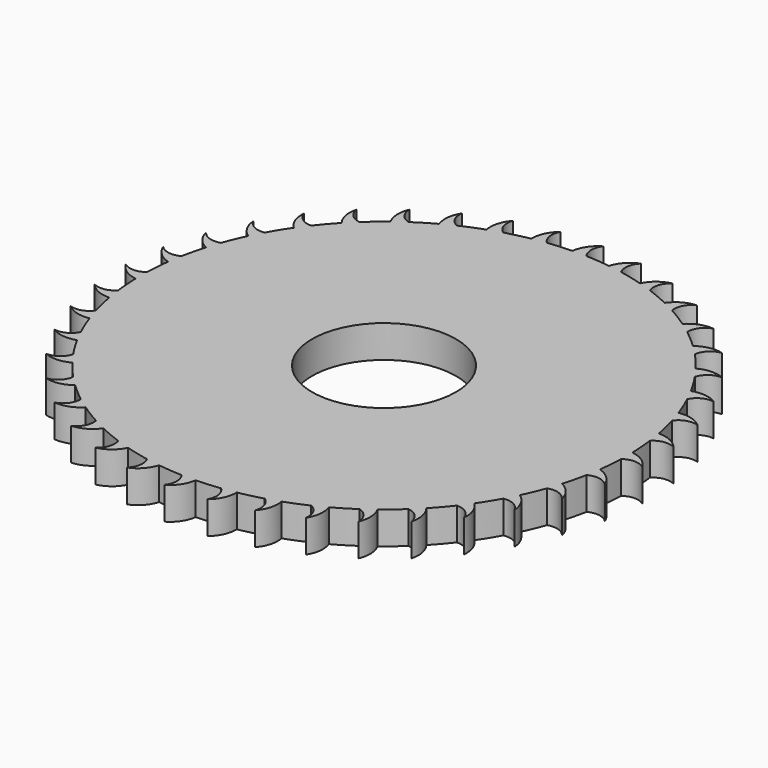
from build123d import *

# Parameters (mm, degrees)
F0_R     = 11.2522
F1_DEPTH = 5.08


with BuildPart() as f1:
    # F0 (on Top) → F1 (new body)
    with BuildSketch(Plane.XY):
        with BuildLine():
            ThreePointArc((38.080461, -1.220032), (38.095115, -0.610094), (38.1, 0))
            ThreePointArc((38.1, 0), (38.096821, 0.492135), (38.087286, 0.984188))
            ThreePointArc((38.087286, 0.984188), (37.991624, 2.871669), (37.802483, 4.752085))
            ThreePointArc((37.802483, 4.752085), (37.6492, 5.843605), (37.464408, 6.930235))
            ThreePointArc((37.464408, 6.930235), (37.074656, 8.779514), (36.593681, 10.60719))
            ThreePointArc((36.593681, 10.60719), (36.271535, 11.661293), (35.919031, 12.705637))
            ThreePointArc((35.919031, 12.705637), (35.244787, 14.471177), (34.483822, 16.201111))
            ThreePointArc((34.483822, 16.201111), (34.000744, 17.191842), (33.489209, 18.168184))
            ThreePointArc((33.489209, 18.168184), (32.547074, 19.806513), (31.524857, 21.396107))
            ThreePointArc((31.524857, 21.396107), (30.892742, 22.29907), (30.234771, 23.18337))
            ThreePointArc((30.234771, 23.18337), (29.047945, 24.654146), (27.789645, 26.064259))
            ThreePointArc((27.789645, 26.064259), (27.024058, 26.857221), (26.235852, 27.627704))
            ThreePointArc((26.235852, 27.627704), (24.833558, 28.894712), (23.37016, 30.090623))
            ThreePointArc((23.37016, 30.090623), (22.489952, 30.754058), (21.59092, 31.391753))
            ThreePointArc((21.59092, 31.391753), (20.007687, 32.423795), (18.375224, 33.376056))
            ThreePointArc((18.375224, 33.376056), (17.402069, 33.893628), (16.414348, 34.382832))
            ThreePointArc((16.414348, 34.382832), (14.68916, 35.154496), (12.927829, 35.83966))
            ThreePointArc((12.927829, 35.83966), (11.885689, 36.198624), (10.8336, 36.527293))
            ThreePointArc((10.8336, 36.527293), (9.008938, 37.019576), (7.162108, 37.420772))
            ThreePointArc((7.162108, 37.420772), (6.076644, 37.612291), (4.986093, 37.772329))
            ThreePointArc((4.986093, 37.772329), (3.106885, 37.973112), (1.220032, 38.080461))
            ThreePointArc((1.220032, 38.080461), (0.117972, 38.099817), (-0.984188, 38.087286))
            ThreePointArc((-0.984188, 38.087286), (-2.871669, 37.991624), (-4.752085, 37.802483))
            ThreePointArc((-4.752085, 37.802483), (-5.843605, 37.6492), (-6.930235, 37.464408))
            ThreePointArc((-6.930235, 37.464408), (-8.779514, 37.074656), (-10.60719, 36.593681))
            ThreePointArc((-10.60719, 36.593681), (-11.661293, 36.271535), (-12.705637, 35.919031))
            ThreePointArc((-12.705637, 35.919031), (-14.471177, 35.244787), (-16.201111, 34.483822))
            ThreePointArc((-16.201111, 34.483822), (-17.191842, 34.000744), (-18.168184, 33.489209))
            ThreePointArc((-18.168184, 33.489209), (-19.806513, 32.547074), (-21.396107, 31.524857))
            ThreePointArc((-21.396107, 31.524857), (-22.29907, 30.892742), (-23.18337, 30.234771))
            ThreePointArc((-23.18337, 30.234771), (-24.654146, 29.047945), (-26.064259, 27.789645))
            ThreePointArc((-26.064259, 27.789645), (-26.857221, 27.024058), (-27.627704, 26.235852))
            ThreePointArc((-27.627704, 26.235852), (-28.894712, 24.833558), (-30.090623, 23.37016))
            ThreePointArc((-30.090623, 23.37016), (-30.754058, 22.489952), (-31.391753, 21.59092))
            ThreePointArc((-31.391753, 21.59092), (-32.423795, 20.007687), (-33.376056, 18.375224))
            ThreePointArc((-33.376056, 18.375224), (-33.893628, 17.402069), (-34.382832, 16.414348))
            ThreePointArc((-34.382832, 16.414348), (-35.154496, 14.68916), (-35.83966, 12.927829))
            ThreePointArc((-35.83966, 12.927829), (-36.198624, 11.885689), (-36.527293, 10.8336))
            ThreePointArc((-36.527293, 10.8336), (-37.019576, 9.008938), (-37.420772, 7.162108))
            ThreePointArc((-37.420772, 7.162108), (-37.612291, 6.076644), (-37.772329, 4.986093))
            ThreePointArc((-37.772329, 4.986093), (-37.973112, 3.106885), (-38.080461, 1.220032))
            ThreePointArc((-38.080461, 1.220032), (-38.099817, 0.117972), (-38.087286, -0.984188))
            ThreePointArc((-38.087286, -0.984188), (-37.991624, -2.871669), (-37.802483, -4.752085))
            ThreePointArc((-37.802483, -4.752085), (-37.6492, -5.843605), (-37.464408, -6.930235))
            ThreePointArc((-37.464408, -6.930235), (-37.074656, -8.779514), (-36.593681, -10.60719))
            ThreePointArc((-36.593681, -10.60719), (-36.271535, -11.661293), (-35.919031, -12.705637))
            ThreePointArc((-35.919031, -12.705637), (-35.244787, -14.471177), (-34.483822, -16.201111))
            ThreePointArc((-34.483822, -16.201111), (-34.000744, -17.191842), (-33.489209, -18.168184))
            ThreePointArc((-33.489209, -18.168184), (-32.547074, -19.806513), (-31.524857, -21.396107))
            ThreePointArc((-31.524857, -21.396107), (-30.892742, -22.29907), (-30.234771, -23.18337))
            ThreePointArc((-30.234771, -23.18337), (-29.047945, -24.654146), (-27.789645, -26.064259))
            ThreePointArc((-27.789645, -26.064259), (-27.024058, -26.857221), (-26.235852, -27.627704))
            ThreePointArc((-26.235852, -27.627704), (-24.833558, -28.894712), (-23.37016, -30.090623))
            ThreePointArc((-23.37016, -30.090623), (-22.489952, -30.754058), (-21.59092, -31.391753))
            ThreePointArc((-21.59092, -31.391753), (-20.007687, -32.423795), (-18.375224, -33.376056))
            ThreePointArc((-18.375224, -33.376056), (-17.402069, -33.893628), (-16.414348, -34.382832))
            ThreePointArc((-16.414348, -34.382832), (-14.68916, -35.154496), (-12.927829, -35.83966))
            ThreePointArc((-12.927829, -35.83966), (-11.885689, -36.198624), (-10.8336, -36.527293))
            ThreePointArc((-10.8336, -36.527293), (-9.008938, -37.019576), (-7.162108, -37.420772))
            ThreePointArc((-7.162108, -37.420772), (-6.076644, -37.612291), (-4.986093, -37.772329))
            ThreePointArc((-4.986093, -37.772329), (-3.106885, -37.973112), (-1.220032, -38.080461))
            ThreePointArc((-1.220032, -38.080461), (-0.117972, -38.099817), (0.984188, -38.087286))
            ThreePointArc((0.984188, -38.087286), (2.871669, -37.991624), (4.752085, -37.802483))
            ThreePointArc((4.752085, -37.802483), (5.843605, -37.6492), (6.930235, -37.464408))
            ThreePointArc((6.930235, -37.464408), (8.779514, -37.074656), (10.60719, -36.593681))
            ThreePointArc((10.60719, -36.593681), (11.661293, -36.271535), (12.705637, -35.919031))
            ThreePointArc((12.705637, -35.919031), (14.471177, -35.244787), (16.201111, -34.483822))
            ThreePointArc((16.201111, -34.483822), (17.191842, -34.000744), (18.168184, -33.489209))
            ThreePointArc((18.168184, -33.489209), (19.806513, -32.547074), (21.396107, -31.524857))
            ThreePointArc((21.396107, -31.524857), (22.29907, -30.892742), (23.18337, -30.234771))
            ThreePointArc((23.18337, -30.234771), (24.654146, -29.047945), (26.064259, -27.789645))
            ThreePointArc((26.064259, -27.789645), (26.857221, -27.024058), (27.627704, -26.235852))
            ThreePointArc((27.627704, -26.235852), (28.894712, -24.833558), (30.090623, -23.37016))
            ThreePointArc((30.090623, -23.37016), (30.754058, -22.489952), (31.391753, -21.59092))
            ThreePointArc((31.391753, -21.59092), (32.423795, -20.007687), (33.376056, -18.375224))
            ThreePointArc((33.376056, -18.375224), (33.893628, -17.402069), (34.382832, -16.414348))
            ThreePointArc((34.382832, -16.414348), (35.154496, -14.68916), (35.83966, -12.927829))
            ThreePointArc((35.83966, -12.927829), (36.198624, -11.885689), (36.527293, -10.8336))
            ThreePointArc((36.527293, -10.8336), (37.019576, -9.008938), (37.420772, -7.162108))
            ThreePointArc((37.420772, -7.162108), (37.612291, -6.076644), (37.772329, -4.986093))
            ThreePointArc((37.772329, -4.986093), (37.973112, -3.106885), (38.080461, -1.220032))
        make_face()
        Circle(F0_R, mode=Mode.SUBTRACT)
        with BuildLine():
            ThreePointArc((38.087286, 0.984188), (38.096821, 0.492135), (38.1, 0))
            ThreePointArc((38.1, 0), (38.095115, -0.610094), (38.080461, -1.220032))
            ThreePointArc((38.080461, -1.220032), (39.738709, -0.657052), (41.396957, -1.220032))
            ThreePointArc((41.396957, -1.220032), (39.999642, 0.268748), (38.087286, 0.984188))
        make_face()
        with BuildLine():
            ThreePointArc((37.464408, 6.930235), (37.6492, 5.843605), (37.802483, 4.752085))
            ThreePointArc((37.802483, 4.752085), (39.352245, 5.567541), (41.078147, 5.270899))
            ThreePointArc((41.078147, 5.270899), (39.465138, 6.522762), (37.464408, 6.930235))
        make_face()
        with BuildLine():
            ThreePointArc((40.696437, -7.680922), (39.549221, -5.991883), (37.772329, -4.986093))
            ThreePointArc((37.772329, -4.986093), (37.612291, -6.076644), (37.420772, -7.162108))
            ThreePointArc((37.420772, -7.162108), (39.146674, -6.865466), (40.696437, -7.680922))
        make_face()
        with BuildLine():
            ThreePointArc((35.919031, 12.705637), (36.271535, 11.661293), (36.593681, 10.60719))
            ThreePointArc((36.593681, 10.60719), (37.996798, 11.655043), (39.747856, 11.632044))
            ThreePointArc((39.747856, 11.632044), (37.958872, 12.616164), (35.919031, 12.705637))
        make_face()
        with BuildLine():
            ThreePointArc((38.993835, -13.952683), (38.124968, -12.104974), (36.527293, -10.8336))
            ThreePointArc((36.527293, -10.8336), (36.198624, -11.885689), (35.83966, -12.927829))
            ThreePointArc((35.83966, -12.927829), (37.590718, -12.90483), (38.993835, -13.952683))
        make_face()
        with BuildLine():
            ThreePointArc((33.489209, 18.168184), (34.000744, 17.191842), (34.483822, 16.201111))
            ThreePointArc((34.483822, 16.201111), (35.705744, 17.455559), (37.438842, 17.706769))
            ThreePointArc((37.438842, 17.706769), (35.517933, 18.398914), (33.489209, 18.168184))
        make_face()
        with BuildLine():
            ThreePointArc((36.331076, -19.880882), (35.761951, -17.920001), (34.382832, -16.414348))
            ThreePointArc((34.382832, -16.414348), (33.893628, -17.402069), (33.376056, -18.375224))
            ThreePointArc((33.376056, -18.375224), (35.109154, -18.626434), (36.331076, -19.880882))
        make_face()
        with BuildLine():
            ThreePointArc((30.234771, 23.18337), (30.892742, 22.29907), (31.524857, 21.396107))
            ThreePointArc((31.524857, 21.396107), (32.535496, 22.826261), (34.207959, 23.345494))
            ThreePointArc((34.207959, 23.345494), (32.202424, 23.728622), (30.234771, 23.18337))
        make_face()
        with BuildLine():
            ThreePointArc((32.773725, -25.319547), (32.518356, -23.293777), (31.391753, -21.59092))
            ThreePointArc((31.391753, -21.59092), (30.754058, -22.489952), (30.090623, -23.37016))
            ThreePointArc((30.090623, -23.37016), (31.763086, -23.889393), (32.773725, -25.319547))
        make_face()
        with BuildLine():
            ThreePointArc((26.235852, 27.627704), (27.024058, 26.857221), (27.789645, 26.064259))
            ThreePointArc((27.789645, 26.064259), (28.564116, 27.634905), (30.134762, 28.409376))
            ThreePointArc((30.134762, 28.409376), (28.093984, 28.474052), (26.235852, 27.627704))
        make_face()
        with BuildLine():
            ThreePointArc((28.409376, -30.134762), (28.474052, -28.093984), (27.627704, -26.235852))
            ThreePointArc((27.627704, -26.235852), (26.857221, -27.024058), (26.064259, -27.789645))
            ThreePointArc((26.064259, -27.789645), (27.634905, -28.564116), (28.409376, -30.134762))
        make_face()
        with BuildLine():
            ThreePointArc((21.59092, 31.391753), (22.489952, 30.754058), (23.37016, 30.090623))
            ThreePointArc((23.37016, 30.090623), (23.889393, 31.763086), (25.319547, 32.773725))
            ThreePointArc((25.319547, 32.773725), (23.293777, 32.518356), (21.59092, 31.391753))
        make_face()
        with BuildLine():
            ThreePointArc((23.345494, -34.207959), (23.728622, -32.202424), (23.18337, -30.234771))
            ThreePointArc((23.18337, -30.234771), (22.29907, -30.892742), (21.396107, -31.524857))
            ThreePointArc((21.396107, -31.524857), (22.826261, -32.535496), (23.345494, -34.207959))
        make_face()
        with BuildLine():
            ThreePointArc((16.414348, 34.382832), (17.402069, 33.893628), (18.375224, 33.376056))
            ThreePointArc((18.375224, 33.376056), (18.626434, 35.109154), (19.880882, 36.331076))
            ThreePointArc((19.880882, 36.331076), (17.920001, 35.761951), (16.414348, 34.382832))
        make_face()
        with BuildLine():
            ThreePointArc((17.706769, -37.438842), (18.398914, -35.517933), (18.168184, -33.489209))
            ThreePointArc((18.168184, -33.489209), (17.191842, -34.000744), (16.201111, -34.483822))
            ThreePointArc((16.201111, -34.483822), (17.455559, -35.705744), (17.706769, -37.438842))
        make_face()
        with BuildLine():
            ThreePointArc((10.8336, 36.527293), (11.885689, 36.198624), (12.927829, 35.83966))
            ThreePointArc((12.927829, 35.83966), (12.90483, 37.590718), (13.952683, 38.993835))
            ThreePointArc((13.952683, 38.993835), (12.104974, 38.124968), (10.8336, 36.527293))
        make_face()
        with BuildLine():
            ThreePointArc((11.632044, -39.747856), (12.616164, -37.958872), (12.705637, -35.919031))
            ThreePointArc((12.705637, -35.919031), (11.661293, -36.271535), (10.60719, -36.593681))
            ThreePointArc((10.60719, -36.593681), (11.655043, -37.996798), (11.632044, -39.747856))
        make_face()
        with BuildLine():
            ThreePointArc((4.986093, 37.772329), (6.076644, 37.612291), (7.162108, 37.420772))
            ThreePointArc((7.162108, 37.420772), (6.865466, 39.146674), (7.680922, 40.696437))
            ThreePointArc((7.680922, 40.696437), (5.991883, 39.549221), (4.986093, 37.772329))
        make_face()
        with BuildLine():
            ThreePointArc((5.270899, -41.078147), (6.522762, -39.465138), (6.930235, -37.464408))
            ThreePointArc((6.930235, -37.464408), (5.843605, -37.6492), (4.752085, -37.802483))
            ThreePointArc((4.752085, -37.802483), (5.567541, -39.352245), (5.270899, -41.078147))
        make_face()
        with BuildLine():
            ThreePointArc((-0.984188, 38.087286), (0.117972, 38.099817), (1.220032, 38.080461))
            ThreePointArc((1.220032, 38.080461), (0.657052, 39.738709), (1.220032, 41.396957))
            ThreePointArc((1.220032, 41.396957), (-0.268748, 39.999642), (-0.984188, 38.087286))
        make_face()
        with BuildLine():
            ThreePointArc((-1.220032, -41.396957), (0.268748, -39.999642), (0.984188, -38.087286))
            ThreePointArc((0.984188, -38.087286), (-0.117972, -38.099817), (-1.220032, -38.080461))
            ThreePointArc((-1.220032, -38.080461), (-0.657052, -39.738709), (-1.220032, -41.396957))
        make_face()
        with BuildLine():
            ThreePointArc((-6.930235, 37.464408), (-5.843605, 37.6492), (-4.752085, 37.802483))
            ThreePointArc((-4.752085, 37.802483), (-5.567541, 39.352245), (-5.270899, 41.078147))
            ThreePointArc((-5.270899, 41.078147), (-6.522762, 39.465138), (-6.930235, 37.464408))
        make_face()
        with BuildLine():
            ThreePointArc((-7.680922, -40.696437), (-5.991883, -39.549221), (-4.986093, -37.772329))
            ThreePointArc((-4.986093, -37.772329), (-6.076644, -37.612291), (-7.162108, -37.420772))
            ThreePointArc((-7.162108, -37.420772), (-6.865466, -39.146674), (-7.680922, -40.696437))
        make_face()
        with BuildLine():
            ThreePointArc((-12.705637, 35.919031), (-11.661293, 36.271535), (-10.60719, 36.593681))
            ThreePointArc((-10.60719, 36.593681), (-11.655043, 37.996798), (-11.632044, 39.747856))
            ThreePointArc((-11.632044, 39.747856), (-12.616164, 37.958872), (-12.705637, 35.919031))
        make_face()
        with BuildLine():
            ThreePointArc((-13.952683, -38.993835), (-12.104974, -38.124968), (-10.8336, -36.527293))
            ThreePointArc((-10.8336, -36.527293), (-11.885689, -36.198624), (-12.927829, -35.83966))
            ThreePointArc((-12.927829, -35.83966), (-12.90483, -37.590718), (-13.952683, -38.993835))
        make_face()
        with BuildLine():
            ThreePointArc((-18.168184, 33.489209), (-17.191842, 34.000744), (-16.201111, 34.483822))
            ThreePointArc((-16.201111, 34.483822), (-17.455559, 35.705744), (-17.706769, 37.438842))
            ThreePointArc((-17.706769, 37.438842), (-18.398914, 35.517933), (-18.168184, 33.489209))
        make_face()
        with BuildLine():
            ThreePointArc((-19.880882, -36.331076), (-17.920001, -35.761951), (-16.414348, -34.382832))
            ThreePointArc((-16.414348, -34.382832), (-17.402069, -33.893628), (-18.375224, -33.376056))
            ThreePointArc((-18.375224, -33.376056), (-18.626434, -35.109154), (-19.880882, -36.331076))
        make_face()
        with BuildLine():
            ThreePointArc((-23.18337, 30.234771), (-22.29907, 30.892742), (-21.396107, 31.524857))
            ThreePointArc((-21.396107, 31.524857), (-22.826261, 32.535496), (-23.345494, 34.207959))
            ThreePointArc((-23.345494, 34.207959), (-23.728622, 32.202424), (-23.18337, 30.234771))
        make_face()
        with BuildLine():
            ThreePointArc((-25.319547, -32.773725), (-23.293777, -32.518356), (-21.59092, -31.391753))
            ThreePointArc((-21.59092, -31.391753), (-22.489952, -30.754058), (-23.37016, -30.090623))
            ThreePointArc((-23.37016, -30.090623), (-23.889393, -31.763086), (-25.319547, -32.773725))
        make_face()
        with BuildLine():
            ThreePointArc((-27.627704, 26.235852), (-26.857221, 27.024058), (-26.064259, 27.789645))
            ThreePointArc((-26.064259, 27.789645), (-27.634905, 28.564116), (-28.409376, 30.134762))
            ThreePointArc((-28.409376, 30.134762), (-28.474052, 28.093984), (-27.627704, 26.235852))
        make_face()
        with BuildLine():
            ThreePointArc((-30.134762, -28.409376), (-28.093984, -28.474052), (-26.235852, -27.627704))
            ThreePointArc((-26.235852, -27.627704), (-27.024058, -26.857221), (-27.789645, -26.064259))
            ThreePointArc((-27.789645, -26.064259), (-28.564116, -27.634905), (-30.134762, -28.409376))
        make_face()
        with BuildLine():
            ThreePointArc((-31.391753, 21.59092), (-30.754058, 22.489952), (-30.090623, 23.37016))
            ThreePointArc((-30.090623, 23.37016), (-31.763086, 23.889393), (-32.773725, 25.319547))
            ThreePointArc((-32.773725, 25.319547), (-32.518356, 23.293777), (-31.391753, 21.59092))
        make_face()
        with BuildLine():
            ThreePointArc((-34.207959, -23.345494), (-32.202424, -23.728622), (-30.234771, -23.18337))
            ThreePointArc((-30.234771, -23.18337), (-30.892742, -22.29907), (-31.524857, -21.396107))
            ThreePointArc((-31.524857, -21.396107), (-32.535496, -22.826261), (-34.207959, -23.345494))
        make_face()
        with BuildLine():
            ThreePointArc((-34.382832, 16.414348), (-33.893628, 17.402069), (-33.376056, 18.375224))
            ThreePointArc((-33.376056, 18.375224), (-35.109154, 18.626434), (-36.331076, 19.880882))
            ThreePointArc((-36.331076, 19.880882), (-35.761951, 17.920001), (-34.382832, 16.414348))
        make_face()
        with BuildLine():
            ThreePointArc((-37.438842, -17.706769), (-35.517933, -18.398914), (-33.489209, -18.168184))
            ThreePointArc((-33.489209, -18.168184), (-34.000744, -17.191842), (-34.483822, -16.201111))
            ThreePointArc((-34.483822, -16.201111), (-35.705744, -17.455559), (-37.438842, -17.706769))
        make_face()
        with BuildLine():
            ThreePointArc((-36.527293, 10.8336), (-36.198624, 11.885689), (-35.83966, 12.927829))
            ThreePointArc((-35.83966, 12.927829), (-37.590718, 12.90483), (-38.993835, 13.952683))
            ThreePointArc((-38.993835, 13.952683), (-38.124968, 12.104974), (-36.527293, 10.8336))
        make_face()
        with BuildLine():
            ThreePointArc((-39.747856, -11.632044), (-37.958872, -12.616164), (-35.919031, -12.705637))
            ThreePointArc((-35.919031, -12.705637), (-36.271535, -11.661293), (-36.593681, -10.60719))
            ThreePointArc((-36.593681, -10.60719), (-37.996798, -11.655043), (-39.747856, -11.632044))
        make_face()
        with BuildLine():
            ThreePointArc((-37.772329, 4.986093), (-37.612291, 6.076644), (-37.420772, 7.162108))
            ThreePointArc((-37.420772, 7.162108), (-39.146674, 6.865466), (-40.696437, 7.680922))
            ThreePointArc((-40.696437, 7.680922), (-39.549221, 5.991883), (-37.772329, 4.986093))
        make_face()
        with BuildLine():
            ThreePointArc((-41.078147, -5.270899), (-39.465138, -6.522762), (-37.464408, -6.930235))
            ThreePointArc((-37.464408, -6.930235), (-37.6492, -5.843605), (-37.802483, -4.752085))
            ThreePointArc((-37.802483, -4.752085), (-39.352245, -5.567541), (-41.078147, -5.270899))
        make_face()
        with BuildLine():
            ThreePointArc((-38.087286, -0.984188), (-38.099817, 0.117972), (-38.080461, 1.220032))
            ThreePointArc((-38.080461, 1.220032), (-39.738709, 0.657052), (-41.396957, 1.220032))
            ThreePointArc((-41.396957, 1.220032), (-39.999642, -0.268748), (-38.087286, -0.984188))
        make_face()
    extrude(amount=F1_DEPTH)


solid = f1.part
